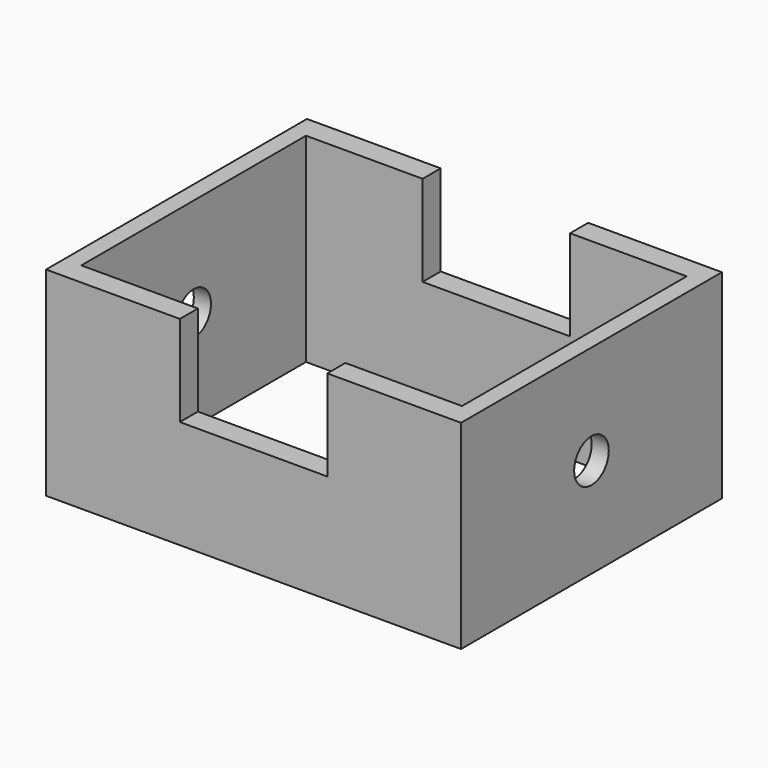
from build123d import *

# Parameters (mm, degrees)
F0_W     = 194.187328
F0_H     = 152.607068
F1_DEPTH = 93.218
F2_W     = 178.14736
F2_H     = 131.446124
F3_DEPTH = 149.606
F4_W     = 68.994268
F4_H     = 84.95936
F5_DEPTH = 236.728
F6_R     = 10.114418
F7_DEPTH = 293.624


with BuildPart() as f1:
    # F0 (on Top) → F1 (new body)
    with BuildSketch(Plane.XY):
        Rectangle(F0_W, F0_H)
    extrude(amount=F1_DEPTH)

    # F2 (on face) → F3 (cut)
    with BuildSketch(Plane.XY.offset(93.218)):
        Rectangle(F2_W, F2_H)
    extrude(amount=-F3_DEPTH, mode=Mode.SUBTRACT)

    # F4 (on face) → F5 (cut)
    with BuildSketch(Plane.XZ.offset(76.303534)):
        with Locations((0, 93.218)):
            Rectangle(F4_W, F4_H)
    extrude(amount=-F5_DEPTH, mode=Mode.SUBTRACT)

    # F6 (on face) → F7 (cut)
    with BuildSketch(Plane.YZ.offset(97.093664)):
        with Locations((0, 46.609)):
            Circle(F6_R)
    extrude(amount=-F7_DEPTH, mode=Mode.SUBTRACT)


solid = f1.part
